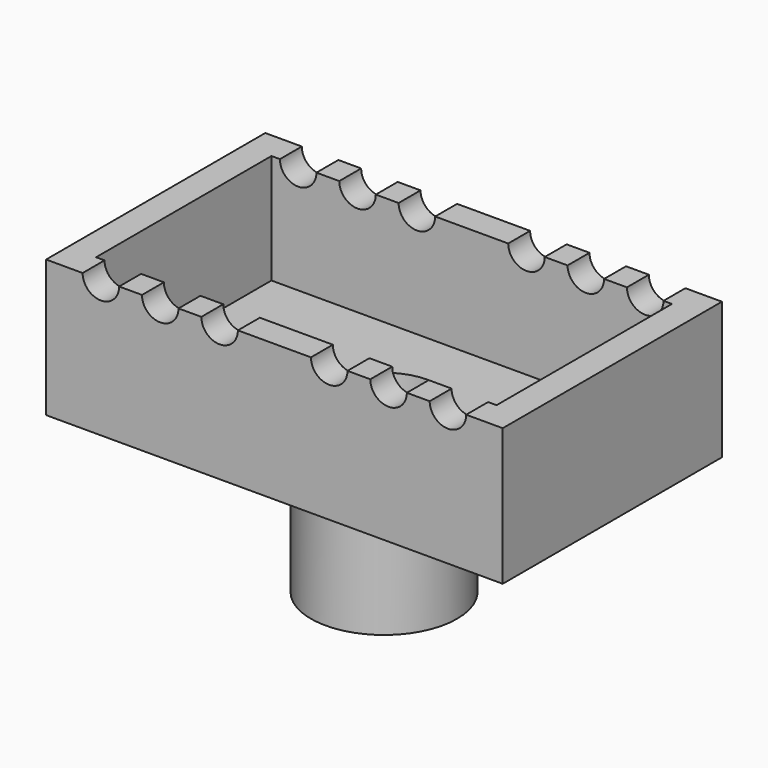
from build123d import *

# Parameters (mm, degrees)
F0_W          = 50
F0_H          = 30
F0_W_2        = 43.8518549643
F0_H_2        = 24
F1_DEPTH      = 15
F0_R          = 8
F2_DEPTH      = 3
F0_R_2        = 6
F3_DEPTH      = 15
F3_DEPTH_BACK = 3
F5_DEPTH      = 46.6


with BuildPart() as f1:
    # F0 (on Top) → F1 (new body)
    with BuildSketch(Plane.XY):
        Rectangle(F0_W, F0_H)
        Rectangle(F0_W_2, F0_H_2, mode=Mode.SUBTRACT)
    extrude(amount=F1_DEPTH)

    # F0 (on Top) → F2 (join)
    with BuildSketch(Plane.XY):
        Rectangle(F0_W_2, F0_H_2)
        Circle(F0_R, mode=Mode.SUBTRACT)
    extrude(amount=F2_DEPTH)

    # F0 (on Top) → F3 (join, two sides)
    with BuildSketch(Plane.XY) as f3_sk:
        Circle(F0_R)
        Circle(F0_R_2, mode=Mode.SUBTRACT)
    extrude(amount=-F3_DEPTH)
    extrude(f3_sk.sketch, amount=F3_DEPTH_BACK)

    # F4 (on face) → F5 (cut)
    with BuildSketch(Plane.XZ.offset(15)):
        with BuildLine():
            ThreePointArc((-17, 15), (-19, 17), (-21, 15))
            Line((-21, 15), (-17, 15))
        make_face()
        with BuildLine():
            ThreePointArc((21, 15), (19, 17), (17, 15))
            Line((17, 15), (21, 15))
        make_face()
        with BuildLine():
            Line((21, 15), (17, 15))
            ThreePointArc((17, 15), (19, 13), (21, 15))
        make_face()
        with BuildLine():
            ThreePointArc((14.5, 15), (12.5, 17), (10.5, 15))
            Line((10.5, 15), (14.5, 15))
        make_face()
        with BuildLine():
            Line((14.5, 15), (10.5, 15))
            ThreePointArc((10.5, 15), (12.5, 13), (14.5, 15))
        make_face()
        with BuildLine():
            ThreePointArc((8, 15), (6, 17), (4, 15))
            Line((4, 15), (8, 15))
        make_face()
        with BuildLine():
            Line((8, 15), (4, 15))
            ThreePointArc((4, 15), (6, 13), (8, 15))
        make_face()
        with BuildLine():
            ThreePointArc((-4, 15), (-6, 17), (-8, 15))
            Line((-8, 15), (-4, 15))
        make_face()
        with BuildLine():
            Line((-4, 15), (-8, 15))
            ThreePointArc((-8, 15), (-6, 13), (-4, 15))
        make_face()
        with BuildLine():
            ThreePointArc((-10.5, 15), (-12.5, 17), (-14.5, 15))
            Line((-14.5, 15), (-10.5, 15))
        make_face()
        with BuildLine():
            Line((-10.5, 15), (-14.5, 15))
            ThreePointArc((-14.5, 15), (-12.5, 13), (-10.5, 15))
        make_face()
        with BuildLine():
            Line((-17, 15), (-21, 15))
            ThreePointArc((-21, 15), (-19, 13), (-17, 15))
        make_face()
    extrude(amount=-F5_DEPTH, mode=Mode.SUBTRACT)


solid = f1.part
